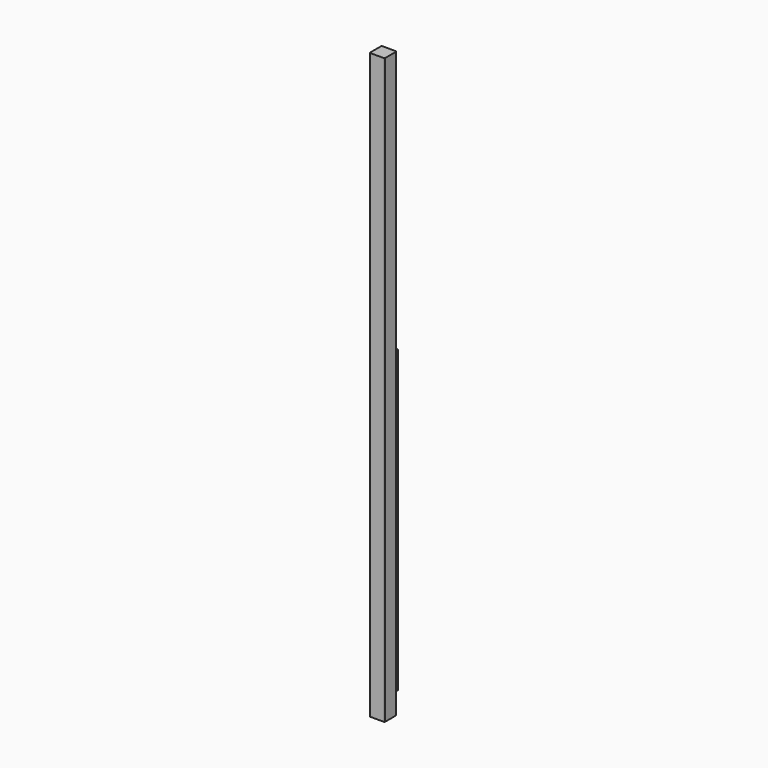
from build123d import *

# Parameters (mm, degrees)
F2_DEPTH = 780
F3_DEPTH = 400


with BuildPart() as f2:
    # F1 (on Top) → F2 (new body)
    with BuildSketch(Plane.XY):
        with BuildLine():
            Line((-9, -10), (9, -10))
            ThreePointArc((9, -10), (9.7071067812, -9.7071067812), (10, -9))
            Line((10, -9), (10, 9))
            ThreePointArc((10, 9), (9.7071067812, 9.7071067812), (9, 10))
            Line((9, 10), (-9, 10))
            ThreePointArc((-9, 10), (-9.7071067812, 9.7071067812), (-10, 9))
            Line((-10, 9), (-10, -9))
            ThreePointArc((-10, -9), (-9.7071067812, -9.7071067812), (-9, -10))
        make_face()
    extrude(amount=F2_DEPTH)


with BuildPart() as f3:
    # F1 (on Top) → F3 (new body)
    with BuildSketch(Plane.XY):
        with BuildLine():
            Line((-43.0881794691, 35.6087179482), (-25.0881794691, 35.6087179482))
            ThreePointArc((-25.0881794691, 35.6087179482), (-24.3810726879, 35.901611167), (-24.0881794691, 36.6087179482))
            Line((-24.0881794691, 36.6087179482), (-24.0881794691, 54.6087179482))
            ThreePointArc((-24.0881794691, 54.6087179482), (-24.3810726879, 55.3158247294), (-25.0881794691, 55.6087179482))
            Line((-25.0881794691, 55.6087179482), (-43.0881794691, 55.6087179482))
            ThreePointArc((-43.0881794691, 55.6087179482), (-43.7952862503, 55.3158247294), (-44.0881794691, 54.6087179482))
            Line((-44.0881794691, 54.6087179482), (-44.0881794691, 36.6087179482))
            ThreePointArc((-44.0881794691, 36.6087179482), (-43.7952862503, 35.901611167), (-43.0881794691, 35.6087179482))
        make_face()
    extrude(amount=F3_DEPTH)


solid = Compound([f2.part, f3.part])
